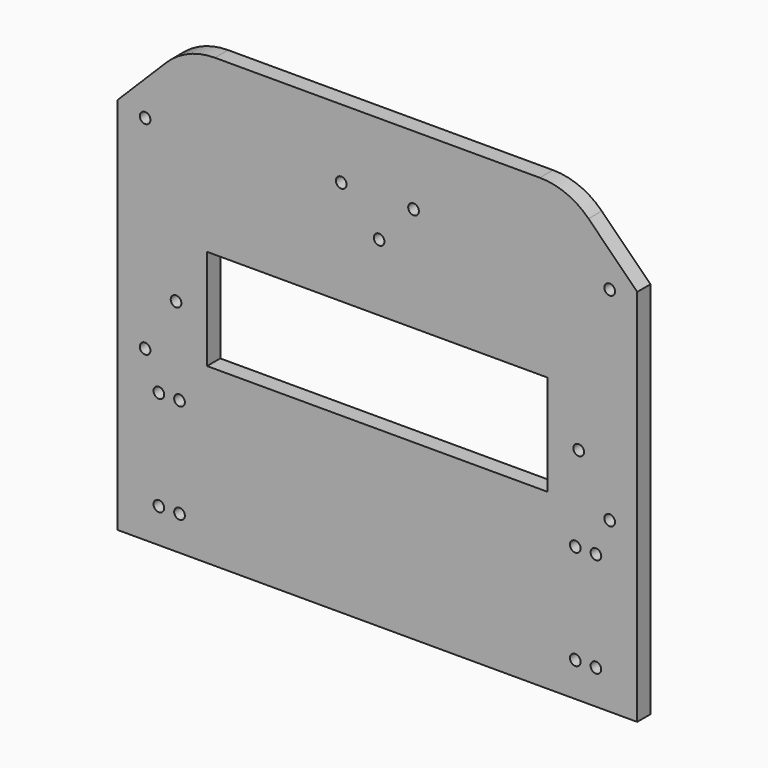
from build123d import *

# Parameters (mm, degrees)
F0_W     = 151
F0_H     = 130
F1_DEPTH = 4.8
F2_W     = 99
F2_H     = 29.22
F3_DEPTH = 4.8
F2_R     = 1.55
F4_DEPTH = 4.8
F5_SIZE  = 20
F6_SIZE  = 20
F7_R     = 20
F8_R     = 20


with BuildPart() as f1:
    # F0 (on Front) → F1 (new body)
    with BuildSketch(Plane.XZ):
        Rectangle(F0_W, F0_H)
    extrude(amount=F1_DEPTH)

    # F2 (on face) → F3 (cut)
    with BuildSketch(Plane.XZ.offset(4.8)):
        Rectangle(F2_W, F2_H)
    extrude(amount=-F3_DEPTH, mode=Mode.SUBTRACT)

    # F2 (on face) → F4 (cut)
    with BuildSketch(Plane.XZ.offset(4.8)):
        Rectangle(F2_W, F2_H)
        with Locations((-63.5, -55)):
            Circle(F2_R)
        with Locations((-57.5, -55)):
            Circle(F2_R)
        with Locations((-63.5, -26)):
            Circle(F2_R)
        with Locations((-57.5, -26)):
            Circle(F2_R)
        with Locations((57.5, -26)):
            Circle(F2_R)
        with Locations((63.5, -26)):
            Circle(F2_R)
        with Locations((57.5, -55)):
            Circle(F2_R)
        with Locations((63.5, -55)):
            Circle(F2_R)
        with Locations((-67.5, -16)):
            Circle(F2_R)
        with Locations((67.5, -16)):
            Circle(F2_R)
        with Locations((-58.5, -1)):
            Circle(F2_R)
        with Locations((58.5, -1)):
            Circle(F2_R)
        with Locations((67.5, 43)):
            Circle(F2_R)
        with Locations((-67.5, 43)):
            Circle(F2_R)
        with Locations((-10.5, 45)):
            Circle(F2_R)
        with Locations((10.5, 45)):
            Circle(F2_R)
        with Locations((0.5, 34)):
            Circle(F2_R)
    extrude(amount=-F4_DEPTH, mode=Mode.SUBTRACT)

    # F5
    f5_edges = [f1.edges().sort_by_distance(p)[0] for p in [
        (-75.5, -2.4, 65),
    ]]
    chamfer(f5_edges, length=F5_SIZE)

    # F6
    f6_edges = [f1.edges().sort_by_distance(p)[0] for p in [
        (75.5, -2.4, 65),
    ]]
    chamfer(f6_edges, length=F6_SIZE)

    # F7
    f7_edges = [f1.edges().sort_by_distance(p)[0] for p in [
        (-55.5, -2.4, 65),
    ]]
    fillet(f7_edges, radius=F7_R)

    # F8
    f8_edges = [f1.edges().sort_by_distance(p)[0] for p in [
        (55.5, -2.4, 65),
    ]]
    fillet(f8_edges, radius=F8_R)


solid = f1.part
